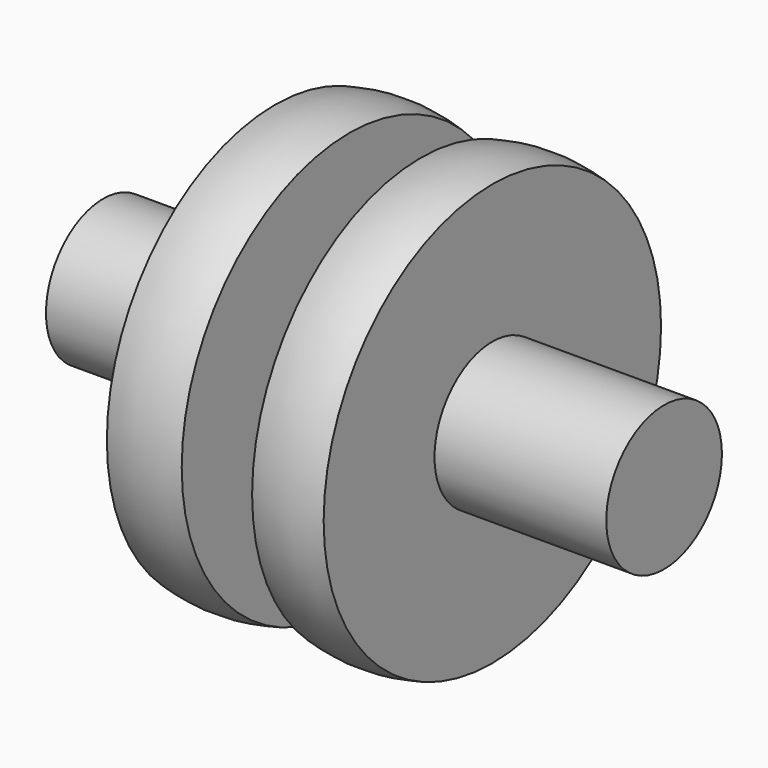
from build123d import *


with BuildPart() as f1:
    # F0 (on Top) → F1 (revolve)
    with BuildSketch(Plane.XY):
        with BuildLine():
            ThreePointArc((3.416723, 18.581762), (0.12515, 19.049383), (-3.175, 18.646722))
            Line((-3.175, 18.646722), (-3.175, 6.35))
            Line((-3.175, 6.35), (-18.415, 6.35))
            Line((-18.415, 6.35), (-18.415, 0))
            Line((-18.415, 0), (31.356723, 0))
            Line((31.356723, 0), (31.356723, 6.414971))
            Line((31.356723, 6.414971), (16.116723, 6.414971))
            Line((16.116723, 6.414971), (16.116723, 18.711693))
            ThreePointArc((16.116723, 18.711693), (12.941723, 19.114971), (9.766723, 18.711693))
            Line((9.766723, 18.711693), (9.766723, 6.35))
            Line((9.766723, 6.35), (3.416723, 6.35))
            Line((3.416723, 6.35), (3.416723, 18.581762))
        make_face()
    revolve(axis=Axis((6.083893, 0, 0), (1, 0, 0)))


solid = f1.part
